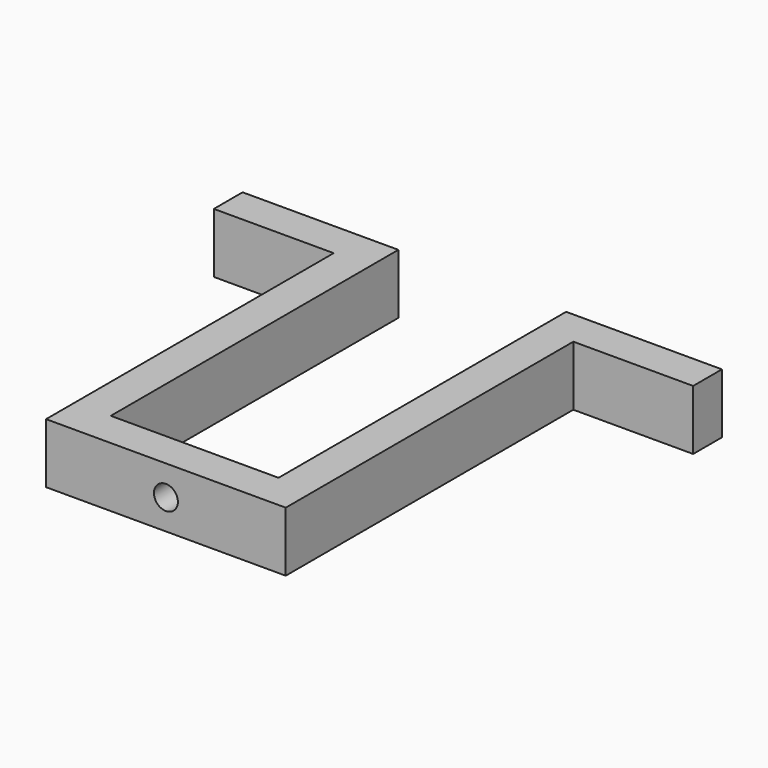
from build123d import *

# Parameters (mm, degrees)
PAD_DEPTH         = 5
SKETCH001_R       = 1
POCKET_DEPTH      = 30.001
POCKET_DEPTH_BACK = -3.001


with BuildPart() as part:
    # Sketch → Pad (new body)
    with BuildSketch(Plane.XY):
        Polygon((7, 0), (-7, 0), (-7, 30), (-20, 30), (-20, 27), (-10, 27), (-10, -3), (10, -3), (10, 27), (20, 27), (20, 30), (7, 30), align=None)
    extrude(amount=PAD_DEPTH)

    # Sketch001 → Pocket (cut, two sides)
    with BuildSketch(Plane.XZ) as pocket_sk:
        with Locations((0, 2.5)):
            Circle(SKETCH001_R)
    extrude(amount=-POCKET_DEPTH, mode=Mode.SUBTRACT)
    extrude(pocket_sk.sketch, amount=-POCKET_DEPTH_BACK, mode=Mode.SUBTRACT)


solid = part.part
